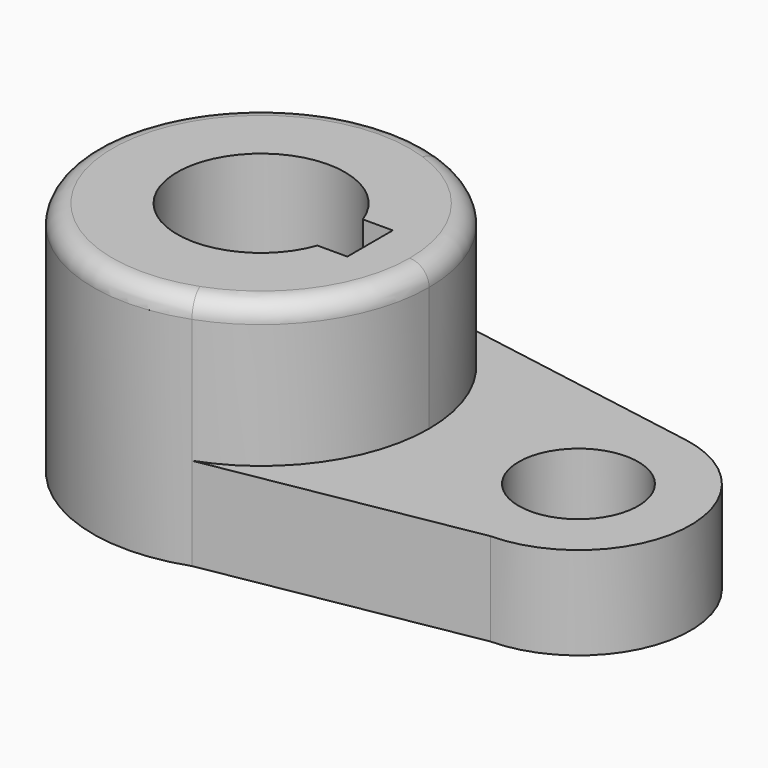
from build123d import *

# Parameters (mm, degrees)
F1_DEPTH = 40.2336
F2_DEPTH = 15.7734
F3_R     = 3.302


with BuildPart() as f1:
    # F0 (on Top) → F1 (new body)
    with BuildSketch(Plane.XY):
        with BuildLine():
            ThreePointArc((9.738373, -26.864376), (23.39663, -16.405131), (28.575, 0))
            ThreePointArc((28.575, 0), (23.327466, 16.503332), (9.512184, 26.945296))
            ThreePointArc((9.512184, 26.945296), (-28.574748, -0.120114), (9.738373, -26.864376))
        make_face()
        with BuildLine():
            Line((18.5293, 4.826), (18.5293, 0))
            Line((18.5293, 0), (18.5293, -4.826))
            Line((18.5293, -4.826), (13.447765, -4.826))
            ThreePointArc((13.447765, -4.826), (-14.2875, 0), (13.447765, 4.826))
            Line((13.447765, 4.826), (18.5293, 4.826))
        make_face(mode=Mode.SUBTRACT)
    extrude(amount=F1_DEPTH)

    # F0 (on Top) → F2 (join)
    with BuildSketch(Plane.XY):
        with BuildLine():
            ThreePointArc((9.512184, 26.945296), (23.327466, 16.503332), (28.575, 0))
            ThreePointArc((28.575, 0), (23.39663, -16.405131), (9.738373, -26.864376))
            Line((9.738373, -26.864376), (54.234754, -19.048229))
            ThreePointArc((54.234754, -19.048229), (72.967046, -1.48482), (57.191927, 18.776418))
            Line((57.191927, 18.776418), (9.512184, 26.945296))
        make_face()
        with BuildLine():
            ThreePointArc((64.135, 0), (53.975, -10.16), (43.815, 0))
            ThreePointArc((43.815, 0), (53.975, 10.16), (64.135, 0))
        make_face(mode=Mode.SUBTRACT)
    extrude(amount=F2_DEPTH)

    # F3
    f3_edges = [f1.edges().sort_by_distance(p)[0] for p in [
        (-9.738373, 26.864376, 40.2336),
    ]]
    fillet(f3_edges, radius=F3_R)


solid = f1.part
